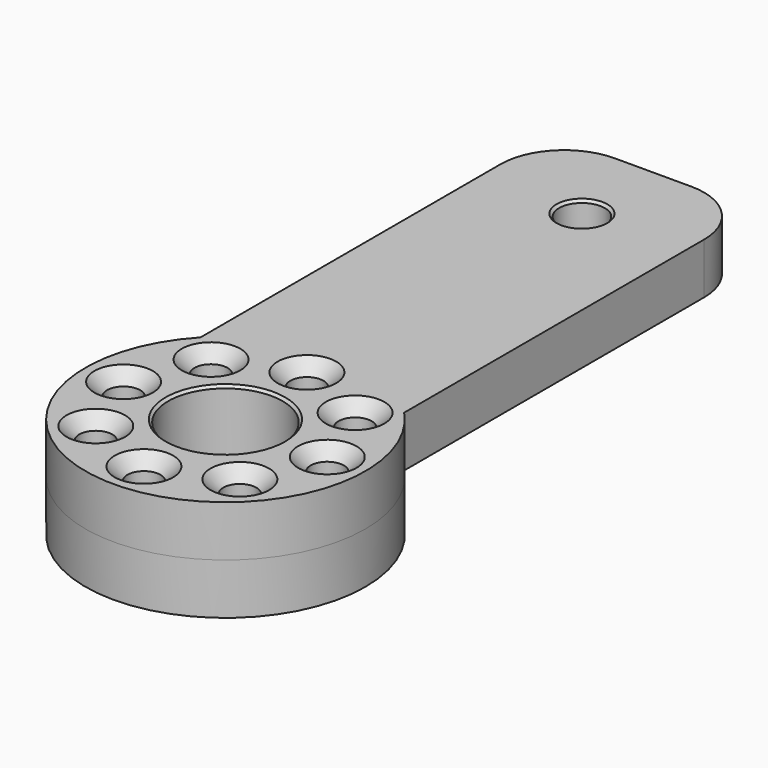
from build123d import *

# Parameters (mm, degrees)
PAD_DEPTH       = 4
SKETCH003_R     = 1.8
POCKET_DEPTH    = 5
FILLET_R        = 5
SKETCH004_R     = 11
PAD001_DEPTH    = 4
SKETCH002_R     = 4.5
SKETCH002_R_2   = 1.3
POCKET001_DEPTH = 10
CHAMFER_SIZE    = 1
CHAMFER001_SIZE = 0.2


with BuildPart() as part:
    # Sketch → Pad (new body)
    with BuildSketch(Plane.XY):
        with BuildLine():
            ThreePointArc((-8, 7.549834), (0, -11), (8, 7.549834))
            Line((8, 7.549834), (8, 42))
            Line((8, 42), (-8, 42))
            Line((-8, 42), (-8, 7.549834))
        make_face()
    extrude(amount=PAD_DEPTH)

    # Sketch003 → Pocket (cut)
    with BuildSketch(Plane.XY.offset(4)):
        with Locations((0, 35)):
            Circle(SKETCH003_R)
    extrude(amount=-POCKET_DEPTH, mode=Mode.SUBTRACT)

    # Fillet
    fillet_edges = [part.edges().sort_by_distance(p)[0] for p in [
        (-8, 42, 2),
        (8, 42, 2),
    ]]
    fillet(fillet_edges, radius=FILLET_R)

    # Sketch004 → Pad001 (join)
    with BuildSketch(Plane(origin=(0, 0, 0), x_dir=(1, 0, 0), z_dir=(0, 0, -1))):
        Circle(SKETCH004_R)
    extrude(amount=PAD001_DEPTH)

    # Sketch002 (on Face5 of Pad001) → Pocket001 (cut)
    with BuildSketch(Plane.XY.offset(4)):
        Circle(SKETCH002_R)
        with Locations((0, 8)):
            Circle(SKETCH002_R_2)
        with Locations((5.656854, 5.656854)):
            Circle(SKETCH002_R_2)
        with Locations((8, 0)):
            Circle(SKETCH002_R_2)
        with Locations((5.656854, -5.656854)):
            Circle(SKETCH002_R_2)
        with Locations((0, -8)):
            Circle(SKETCH002_R_2)
        with Locations((-5.656854, -5.656854)):
            Circle(SKETCH002_R_2)
        with Locations((-8, 0)):
            Circle(SKETCH002_R_2)
        with Locations((-5.656854, 5.656854)):
            Circle(SKETCH002_R_2)
    extrude(amount=-POCKET001_DEPTH, mode=Mode.SUBTRACT)

    # Chamfer
    chamfer_edges = [part.edges().sort_by_distance(p)[0] for p in [
        (-6.956854, 5.656854, 4),
        (-1.3, 8, 4),
        (4.356854, 5.656854, 4),
        (6.7, 0, 4),
        (4.356854, -5.656854, 4),
        (-1.3, -8, 4),
        (-6.956854, -5.656854, 4),
        (-9.3, 0, 4),
    ]]
    chamfer(chamfer_edges, length=CHAMFER_SIZE)

    # Chamfer001
    chamfer001_edges = [part.edges().sort_by_distance(p)[0] for p in [
        (-1.8, 35, 4),
        (-4.5, 0, 4),
    ]]
    chamfer(chamfer001_edges, length=CHAMFER001_SIZE)


solid = part.part
